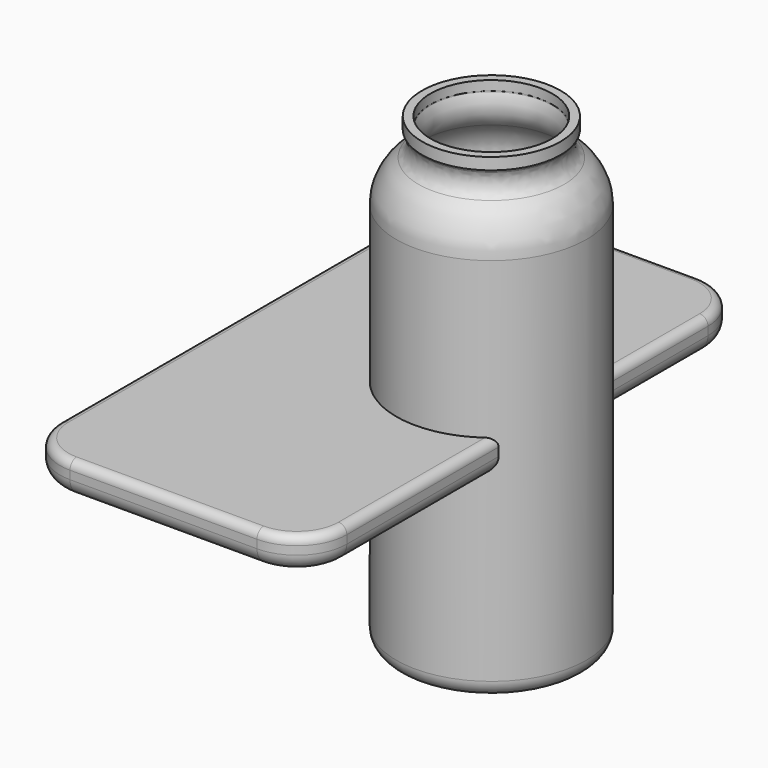
from build123d import *

# Parameters (mm, degrees)
F0_W     = 43.796943
F0_H     = 84.181137
F1_DEPTH = 5.08
F2_R     = 7.62
F3_R     = 2.54
F4_R     = 1.27
F7_R     = 2.54
F8_R     = 7.62
F9_R     = 2.54
F10_T    = -1.27


with BuildPart() as f1:
    # F0 (on Top) → F1 (new body)
    with BuildSketch(Plane.XY):
        with Locations((-12.181616, -5.261321)):
            Rectangle(F0_W, F0_H)
    extrude(amount=F1_DEPTH)

    # F2
    f2_edges = [f1.edges().sort_by_distance(p)[0] for p in [
        (-34.080088, -47.351889, 2.54),
        (9.716855, -47.351889, 2.54),
        (9.716855, 36.829248, 2.54),
        (-34.080088, 36.829248, 2.54),
    ]]
    fillet(f2_edges, radius=F2_R)

    # F3
    f3_edges = [f1.edges().sort_by_distance(p)[0] for p in [
        (-34.080088, -5.261321, 0),
    ]]
    fillet(f3_edges, radius=F3_R)

    # F4
    f4_edges = [f1.edges().sort_by_distance(p)[0] for p in [
        (-34.080088, -5.261321, 5.08),
    ]]
    fillet(f4_edges, radius=F4_R)


with BuildPart() as f6:
    # F5 (on Front) → F6 (revolve)
    with BuildSketch(Plane.XZ):
        Polygon((0, 32.432933), (0, -30.216118), (14.501221, -30.216118), (14.501221, 33.283882), (9.089231, 36.408496), (10.569267, 38.971994), (10.569267, 40.772511), (0, 40.772511), align=None)
    revolve(axis=Axis((0, 0, 1.108407), (0, 0, -1)))

    # F7
    f7_edges = [f6.edges().sort_by_distance(p)[0] for p in [
        (-14.501221, 0, -30.216118),
    ]]
    fillet(f7_edges, radius=F7_R)

    # F8
    f8_edges = [f6.edges().sort_by_distance(p)[0] for p in [
        (-14.501221, 0, 33.283882),
    ]]
    fillet(f8_edges, radius=F8_R)

    # F9
    f9_edges = [f6.edges().sort_by_distance(p)[0] for p in [
        (-9.089231, 0, 36.408496),
    ]]
    fillet(f9_edges, radius=F9_R)

    # F10
    f10_openings = [f6.faces().sort_by_distance(p)[0] for p in [
        (0, 0, 40.772511),
    ]]
    offset(amount=F10_T, openings=f10_openings)


solid = Compound([f1.part, f6.part])
